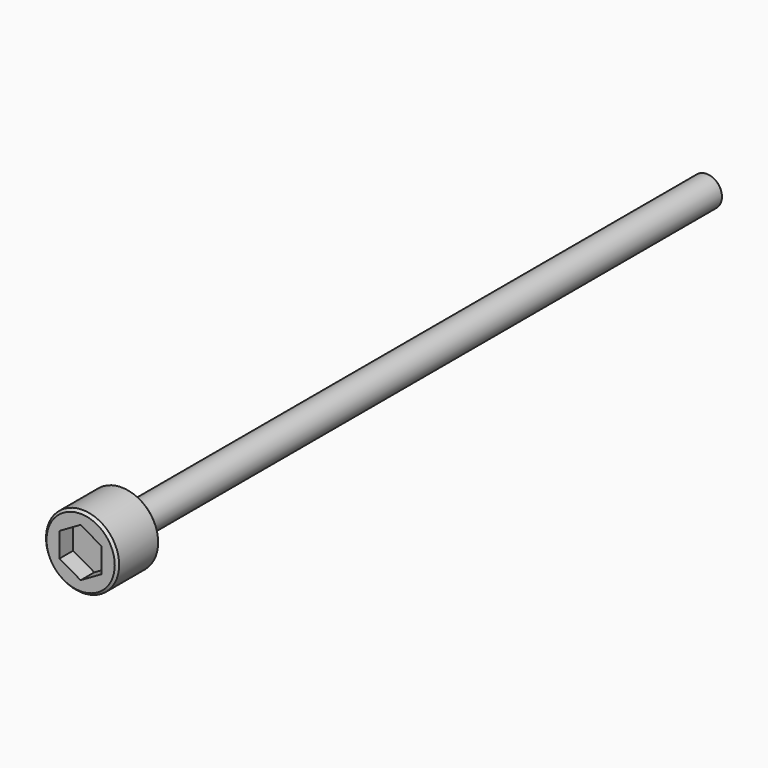
from build123d import *

# Parameters (mm, degrees)
F0_R     = 3.81
F1_DEPTH = 5.588
F2_DEPTH = 3.81
F3_R     = 1.5875
F4_DEPTH = 76.2
F5_SIZE  = 0.254
F6_SIZE  = 0.254


with BuildPart() as f1:
    # F0 (on Front) → F1 (new body)
    with BuildSketch(Plane.XZ):
        Circle(F0_R)
        Polygon((0, 2.54), (2.199705, 1.27), (2.199705, -1.27), (0, -2.54), (-2.199705, -1.27), (-2.199705, 1.27), align=None, mode=Mode.SUBTRACT)
    extrude(amount=F1_DEPTH)

    # F0 (on Front) → F2 (join)
    with BuildSketch(Plane.XZ):
        Polygon((2.199705, -1.27), (2.199705, 1.27), (0, 2.54), (-2.199705, 1.27), (-2.199705, -1.27), (0, -2.54), align=None)
    extrude(amount=F2_DEPTH)

    # F3 (on face) → F4 (join)
    with BuildSketch(Plane(origin=(0, 0, 0), x_dir=(-1, 0, 0), z_dir=(0, 1, 0))):
        Circle(F3_R)
    extrude(amount=F4_DEPTH)

    # F5
    f5_edges = [f1.edges().sort_by_distance(p)[0] for p in [
        (-3.81, -5.588, 0),
        (-3.81, 0, 0),
    ]]
    chamfer(f5_edges, length=F5_SIZE)

    # F6
    f6_edges = [f1.edges().sort_by_distance(p)[0] for p in [
        (1.5875, 76.2, 0),
    ]]
    chamfer(f6_edges, length=F6_SIZE)


solid = f1.part
